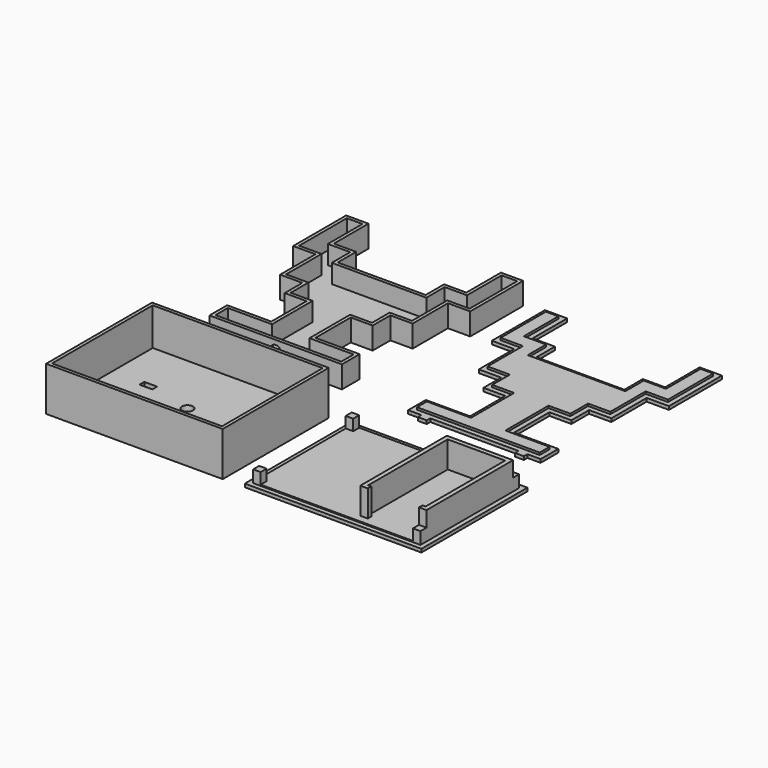
from build123d import *

# Parameters (mm, degrees)
F0_W                       = 4
F0_H                       = 2
F1_DEPTH                   = 1.5
F4_DEPTH                   = 8.5
F5_T                       = -1.5
F7_D                       = 5
F7_DEPTH                   = 20
F7_TIP                     = 1.5021515476
F9_DEPTH                   = 1
F10_W                      = 80
F10_H                      = 60
F10_W_2                    = 5.8
F10_H_2                    = 2.7
F10_R                      = 2.5
F11_DEPTH                  = 20
F12_W                      = 77
F12_H                      = 57
F13_DEPTH                  = 18.5
FPH8DFIFHSPQ4S0_2_FACE_W   = 77
FPH8DFIFHSPQ4S0_2_FACE_H   = 57
FPH8DFIFHSPQ4S0_2_FACE_W_2 = 5.8
FPH8DFIFHSPQ4S0_2_FACE_H_2 = 2.7
FPH8DFIFHSPQ4S0_2_FACE_R   = 2.5
F14_W                      = 80
F14_H                      = 60
F15_DEPTH                  = 1.5
F16_W                      = 75.8
F16_H                      = 55.8
F17_DEPTH                  = 0.5
F18_W                      = 30
F18_H                      = 49
F18_W_2                    = 26
F18_H_2                    = 45
F19_DEPTH                  = 12
F21_W                      = 23.2
F21_H                      = 2
F22_DEPTH                  = 12
F20_W                      = 3.4
F20_H                      = 3.4
F23_DEPTH                  = 5


with BuildPart() as f1:
    # F0 (on Top) → F1 (new body)
    with BuildSketch(Plane.XY):
        Polygon((-30, -30), (-30, -40), (-24, -40), (-20, -40), (20, -40), (24, -40), (30, -40), (30, -30), (10, -30), (10, -10), (19.9095545709, -10), (19.9095545709, 0), (30, 0), (30, 20), (40.0904454291, 20), (40.0904454291, 50), (30, 50), (30, 30.4353255779), (19.9095545709, 30.4353255779), (19.9095545709, 20), (-19.9095545709, 20), (-19.9095545709, 30.4353255779), (-30, 30.4353255779), (-30, 50), (-40.0904454291, 50), (-40.0904454291, 20), (-30, 20), (-30, 0), (-19.9095545709, 0), (-19.9095545709, -10), (-10, -10), (-10, -30), align=None)
        with Locations((-22, -41)):
            Rectangle(F0_W, F0_H)
        with Locations((22, -41)):
            Rectangle(F0_W, F0_H)
    extrude(amount=F1_DEPTH)


with BuildPart() as f2_1:
    # F2: copy of F1
    add(f1.part.moved(Location((90, 0, 0))))

    # F8 (on face) → F9 (join)
    with BuildSketch(Plane.XY.offset(1.5)):
        Polygon((62.2, -32.2), (62.2, -37.8), (117.8, -37.8), (117.8, -32.2), (97.8, -32.2), (97.8, -7.8), (107.7095545709, -7.8), (107.7095545709, 2.2), (117.8, 2.2), (117.8, 22.2), (127.8904454291, 22.2), (127.8904454291, 47.8), (122.2, 47.8), (122.2, 28.2353255779), (112.1095545709, 28.2353255779), (112.1095545709, 17.8), (67.8904454291, 17.8), (67.8904454291, 28.2353255779), (57.8, 28.2353255779), (57.8, 47.8), (52.1095545709, 47.8), (52.1095545709, 22.2), (62.2, 22.2), (62.2, 2.2), (72.2904454291, 2.2), (72.2904454291, -7.8), (82.2, -7.8), (82.2, -32.2), align=None)
    extrude(amount=F9_DEPTH)


with BuildPart() as f1_1:
    add(f1.part)

    # F3 (on face) → F4 (join)
    with BuildSketch(Plane.XY.offset(1.5)):
        Polygon((-30, -30), (-30, -40), (-24, -40), (-20, -40), (20, -40), (24, -40), (30, -40), (30, -30), (10, -30), (10, -10), (19.9095545709, -10), (19.9095545709, 0), (30, 0), (30, 20), (40.0904454291, 20), (40.0904454291, 50), (30, 50), (30, 30.4353255779), (19.9095545709, 30.4353255779), (19.9095545709, 20), (-19.9095545709, 20), (-19.9095545709, 30.4353255779), (-30, 30.4353255779), (-30, 50), (-40.0904454291, 50), (-40.0904454291, 20), (-30, 20), (-30, 0), (-19.9095545709, 0), (-19.9095545709, -10), (-10, -10), (-10, -30), align=None)
    extrude(amount=F4_DEPTH)

    # F5
    f5_openings = [f1_1.faces().sort_by_distance(p)[0] for p in [
        (0, 2.199533, 10),
    ]]
    offset(amount=F5_T, openings=f5_openings, kind=Kind.INTERSECTION)

    # F7
    with Locations(Plane.XZ.offset(40)):
        with Locations((0, 5.5)):
            Hole(F7_D / 2, depth=F7_DEPTH)
            with Locations((0, 0, -(F7_DEPTH + F7_TIP / 2))):  # 118° drill point
                Cone(0, F7_D / 2, F7_TIP, mode=Mode.SUBTRACT)


with BuildPart() as f11:
    # F10 (on Top) → F11 (new body)
    with BuildSketch(Plane.XY):
        with Locations((0, -90)):
            Rectangle(F10_W, F10_H)
        with Locations((-21.7, -95)):
            Rectangle(F10_W_2, F10_H_2, mode=Mode.SUBTRACT)
        with Locations((21.7, -95)):
            Rectangle(F10_W_2, F10_H_2, mode=Mode.SUBTRACT)
        with Locations((-21.7, -85)):
            Rectangle(F10_W_2, F10_H_2, mode=Mode.SUBTRACT)
        with Locations((0, -90)):
            Circle(F10_R, mode=Mode.SUBTRACT)
        with Locations((21.7, -85)):
            Rectangle(F10_W_2, F10_H_2, mode=Mode.SUBTRACT)
    extrude(amount=F11_DEPTH)

    # F12 (on face) → F13 (cut)
    with BuildSketch(Plane.XY.offset(20)):
        with Locations((0, -90)):
            Rectangle(F12_W, F12_H)
    extrude(amount=-F13_DEPTH, mode=Mode.SUBTRACT)

    # FpH8dFIfhSpq4S0_2_face (on face) + F14 (on Top) → F15 (join)
    with BuildSketch(Plane(origin=(0, -90, 1.5), x_dir=(1, 0, 0), z_dir=(0, 0, 1))):
        Rectangle(FPH8DFIFHSPQ4S0_2_FACE_W, FPH8DFIFHSPQ4S0_2_FACE_H)
        with Locations((-21.7, -5)):
            Rectangle(FPH8DFIFHSPQ4S0_2_FACE_W_2, FPH8DFIFHSPQ4S0_2_FACE_H_2, mode=Mode.SUBTRACT)
        with Locations((21.7, -5)):
            Rectangle(FPH8DFIFHSPQ4S0_2_FACE_W_2, FPH8DFIFHSPQ4S0_2_FACE_H_2, mode=Mode.SUBTRACT)
        with Locations((-21.7, 5)):
            Rectangle(FPH8DFIFHSPQ4S0_2_FACE_W_2, FPH8DFIFHSPQ4S0_2_FACE_H_2, mode=Mode.SUBTRACT)
        Circle(FPH8DFIFHSPQ4S0_2_FACE_R, mode=Mode.SUBTRACT)
        with Locations((21.7, 5)):
            Rectangle(FPH8DFIFHSPQ4S0_2_FACE_W_2, FPH8DFIFHSPQ4S0_2_FACE_H_2, mode=Mode.SUBTRACT)
    with BuildSketch(Plane.XY):
        with Locations((90, -90)):
            Rectangle(F14_W, F14_H)
    extrude(amount=F15_DEPTH)

    # F16 (on face) → F17 (join)
    with BuildSketch(Plane.XY.offset(1.5)):
        with Locations((90, -90)):
            Rectangle(F16_W, F16_H)
    extrude(amount=F17_DEPTH)

    # F18 (on face) → F19 (join)
    with BuildSketch(Plane.XY.offset(2)):
        with Locations((112.9, -90)):
            Rectangle(F18_W, F18_H)
        with Locations((112.9, -90)):
            Rectangle(F18_W_2, F18_H_2, mode=Mode.SUBTRACT)
    extrude(amount=F19_DEPTH)

    # F21 (on face) → F22 (cut)
    with BuildSketch(Plane.XY.offset(14)):
        with Locations((112.9, -113.5)):
            Rectangle(F21_W, F21_H)
    extrude(amount=-F22_DEPTH, mode=Mode.SUBTRACT)

    # F20 (on face) → F23 (join)
    with BuildSketch(Plane.XY.offset(2)):
        with Locations((126.2, -116.2)):
            Rectangle(F20_W, F20_H)
        with Locations((126.2, -63.8)):
            Rectangle(F20_W, F20_H)
        with Locations((53.8, -63.8)):
            Rectangle(F20_W, F20_H)
        with Locations((53.8, -116.2)):
            Rectangle(F20_W, F20_H)
    extrude(amount=F23_DEPTH)


solid = Compound([f2_1.part, f1_1.part, f11.part])
